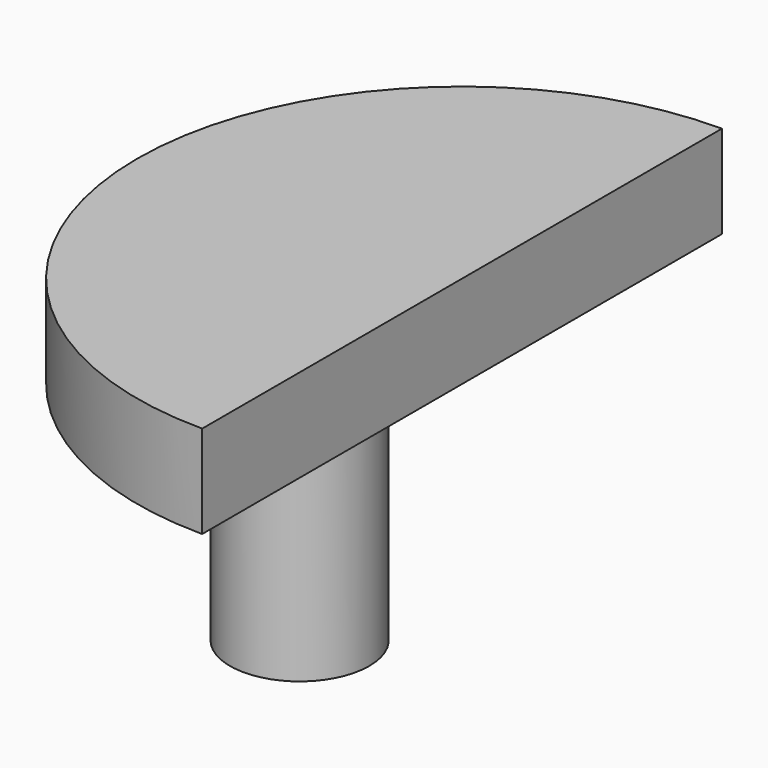
from build123d import *

# Parameters (mm, degrees)
F1_DEPTH = 25.4
F3_DEPTH = 76.2


with BuildPart() as f1:
    # F0 (on Top) → F1 (new body)
    with BuildSketch(Plane.XY):
        with BuildLine():
            Line((0, -88.9), (0, 88.9))
            ThreePointArc((0, 88.9), (-88.9, 0), (0, -88.9))
        make_face()
    extrude(amount=F1_DEPTH)

    # F2 (on face) → F3 (join)
    with BuildSketch(Plane(origin=(0, 0, 0), x_dir=(1, 0, 0), z_dir=(0, 0, -1))):
        with BuildLine():
            ThreePointArc((-63.5, 0), (-44.45, -19.05), (-25.4, 0))
            Line((-25.4, 0), (-63.5, 0))
        make_face()
        with BuildLine():
            Line((-63.5, 0), (-25.4, 0))
            ThreePointArc((-25.4, 0), (-44.45, 19.05), (-63.5, 0))
        make_face()
    extrude(amount=F3_DEPTH)


solid = f1.part
